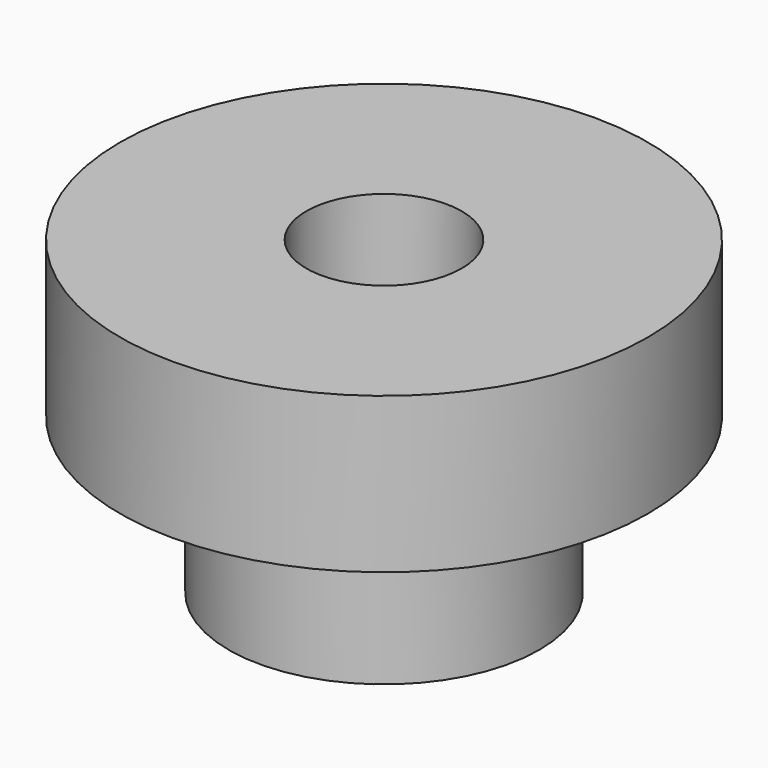
from build123d import *

# Parameters (mm, degrees)
F0_R     = 12.7
F0_R_2   = 6.35
F1_DEPTH = 25.4
F2_R     = 21.59
F2_R_2   = 12.7
F3_DEPTH = 12.7


with BuildPart() as f1:
    # F0 (on Top) → F1 (new body)
    with BuildSketch(Plane.XY):
        with Locations((0, 39.825506)):
            Circle(F0_R)
        with Locations((0, 39.825506)):
            Circle(F0_R_2, mode=Mode.SUBTRACT)
    extrude(amount=F1_DEPTH)

    # F2 (on face) → F3 (join)
    with BuildSketch(Plane.XY.offset(25.4)):
        with Locations((0, 39.825506)):
            Circle(F2_R)
        with Locations((0, 39.825506)):
            Circle(F2_R_2, mode=Mode.SUBTRACT)
    extrude(amount=-F3_DEPTH)


with BuildPart() as f1_1:
    # F4: moved
    add(f1.part.moved(Location((0, -40.64, 0))))


solid = f1_1.part
